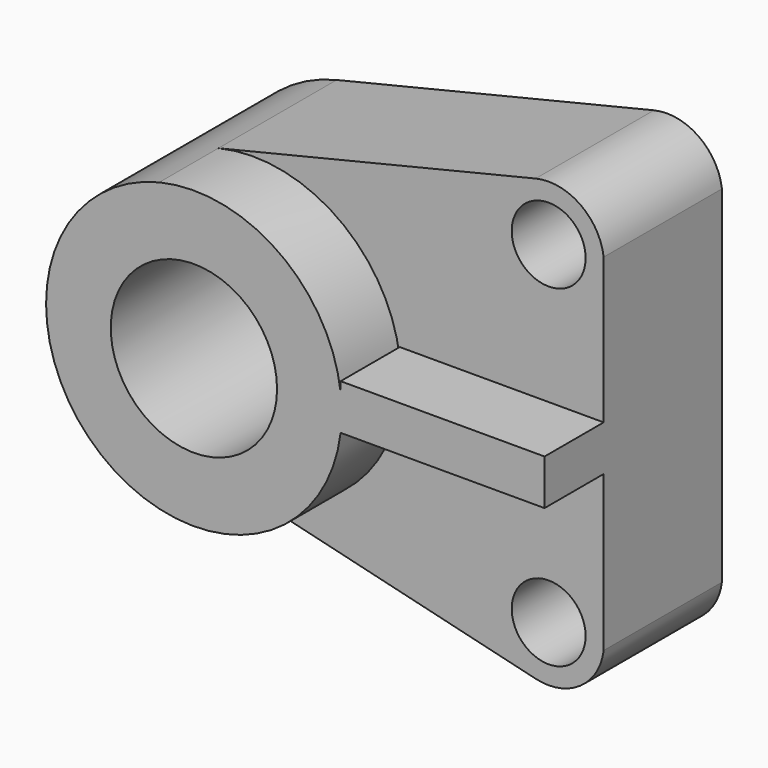
from build123d import *

# Parameters (mm, degrees)
F0_R     = 6.35
F0_R_2   = 14.2875
F1_DEPTH = 25.4
F2_DEPTH = 38.1
F3_W     = 35.03626
F3_H     = 7.807383
F4_DEPTH = 12.7


with BuildPart() as f1:
    # F0 (on Front) → F1 (new body)
    with BuildSketch(Plane.XZ):
        with BuildLine():
            ThreePointArc((-5.952169, 24.692745), (15.715834, 19.954261), (25.4, 0))
            ThreePointArc((25.4, 0), (15.715834, -19.954261), (-5.952169, -24.692745))
            Line((-5.952169, -24.692745), (48.567936, -37.83478))
            ThreePointArc((48.567936, -37.83478), (56.217416, -36.409362), (60.251547, -29.755632))
            Line((60.251547, -29.755632), (60.251547, 27.394368))
            Line((60.251547, 27.394368), (60.251547, 29.755632))
            ThreePointArc((60.251547, 29.755632), (56.217416, 36.409362), (48.567936, 37.83478))
            Line((48.567936, 37.83478), (-5.952169, 24.692745))
        make_face()
        with Locations((50.8, -28.575)):
            Circle(F0_R, mode=Mode.SUBTRACT)
        with Locations((50.8, 28.575)):
            Circle(F0_R, mode=Mode.SUBTRACT)
        with BuildLine():
            ThreePointArc((-5.952169, -24.692745), (15.715834, -19.954261), (25.4, 0))
            ThreePointArc((25.4, 0), (15.715834, 19.954261), (-5.952169, 24.692745))
            ThreePointArc((-5.952169, 24.692745), (-25.4, 0), (-5.952169, -24.692745))
        make_face()
        Circle(F0_R_2, mode=Mode.SUBTRACT)
    extrude(amount=F1_DEPTH)

    # F0 (on Front) → F2 (join)
    with BuildSketch(Plane.XZ):
        with BuildLine():
            ThreePointArc((-5.952169, -24.692745), (15.715834, -19.954261), (25.4, 0))
            ThreePointArc((25.4, 0), (15.715834, 19.954261), (-5.952169, 24.692745))
            ThreePointArc((-5.952169, 24.692745), (-25.4, 0), (-5.952169, -24.692745))
        make_face()
        Circle(F0_R_2, mode=Mode.SUBTRACT)
    extrude(amount=F2_DEPTH)

    # F3 (on face) → F4 (join)
    with BuildSketch(Plane.XZ.offset(25.4)):
        with Locations((42.733417, 0.846031)):
            Rectangle(F3_W, F3_H)
        with BuildLine():
            Line((60.251547, -3.057661), (60.251547, 4.749722))
            Line((60.251547, 4.749722), (25.215287, 4.749722))
            Line((25.215287, 4.749722), (25.215287, 3.057661))
            ThreePointArc((25.215287, 3.057661), (25.4, 0), (25.215287, -3.057661))
            Line((25.215287, -3.057661), (60.251547, -3.057661))
        make_face()
    extrude(amount=F4_DEPTH)


solid = f1.part
